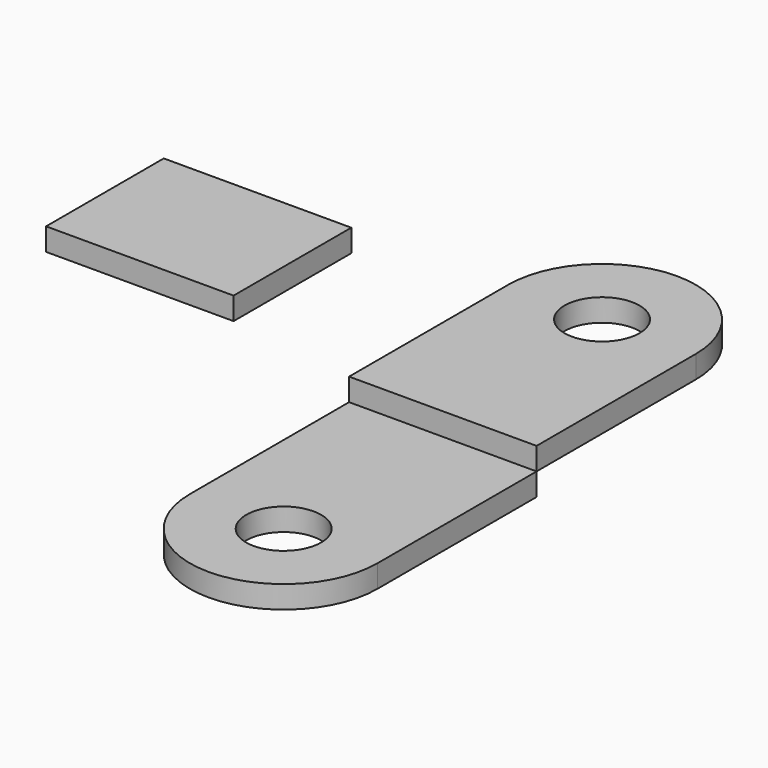
from build123d import *

# Parameters (mm, degrees)
F0_R     = 5
F1_DEPTH = 3
F2_DEPTH = 3
F0_W     = 25
F0_H     = 19.617882
F3_DEPTH = 3


with BuildPart() as f1:
    # F0 (on Top) → F1 (new body)
    with BuildSketch(Plane.XY):
        with BuildLine():
            Line((12.542379, -0.049289), (12.542379, 26.482524))
            ThreePointArc((12.542379, 26.482524), (0.042379, 13.982524), (-12.457621, 26.482524))
            Line((-12.457621, 26.482524), (-12.457621, -0.049289))
            Line((-12.457621, -0.049289), (12.542379, -0.049289))
        make_face()
        with BuildLine():
            ThreePointArc((-12.457621, 26.482524), (0.042379, 13.982524), (12.542379, 26.482524))
            ThreePointArc((12.542379, 26.482524), (0.042379, 38.982524), (-12.457621, 26.482524))
        make_face()
        with Locations((0.042379, 26.482524)):
            Circle(F0_R, mode=Mode.SUBTRACT)
    extrude(amount=F1_DEPTH)

    # F0 (on Top) → F2 (join)
    with BuildSketch(Plane.XY):
        with BuildLine():
            Line((12.542379, -26.581102), (12.542379, -0.049289))
            Line((12.542379, -0.049289), (-12.457621, -0.049289))
            Line((-12.457621, -0.049289), (-12.457621, -26.581102))
            ThreePointArc((-12.457621, -26.581102), (0.042379, -14.081102), (12.542379, -26.581102))
        make_face()
        with BuildLine():
            ThreePointArc((-12.457621, -26.581102), (0.042379, -39.081102), (12.542379, -26.581102))
            ThreePointArc((12.542379, -26.581102), (0.042379, -14.081102), (-12.457621, -26.581102))
        make_face()
        with Locations((0.042379, -26.581102)):
            Circle(F0_R, mode=Mode.SUBTRACT)
    extrude(amount=-F2_DEPTH)


with BuildPart() as f3:
    # F0 (on Top) → F3 (new body)
    with BuildSketch(Plane.XY):
        with Locations((-45.761409, 16.509764)):
            Rectangle(F0_W, F0_H)
    extrude(amount=F3_DEPTH)


solid = Compound([f1.part, f3.part])
